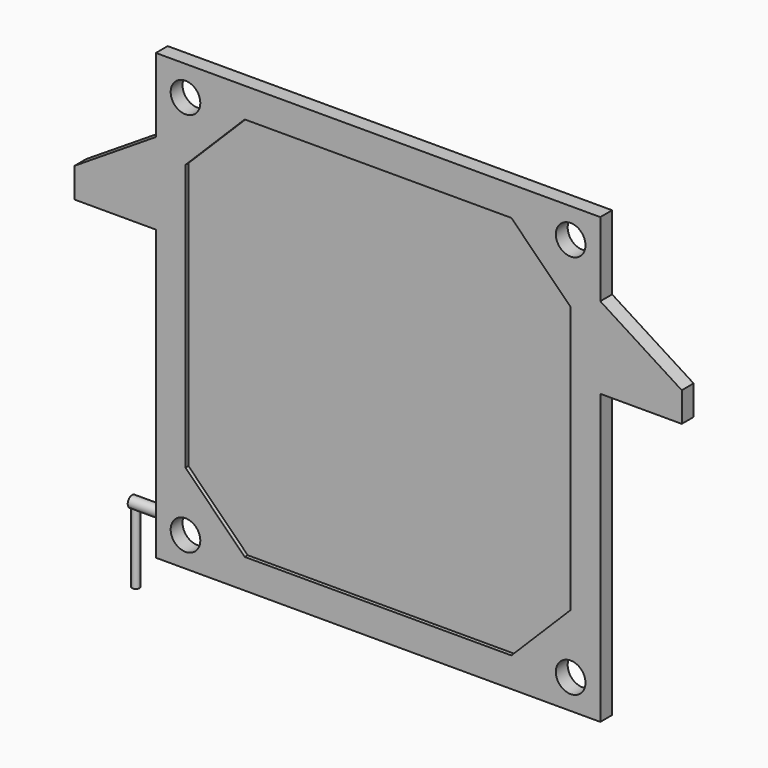
from build123d import *

# Parameters (mm, degrees)
F1_DEPTH       = 20
F2_R           = 40
F3_DEPTH       = 50
F5_DEPTH       = 10
F7_DEPTH       = 10
F8_R           = 15
F9_DEPTH       = 80
F10_R          = 10
F11_DEPTH      = 100
F11_DEPTH_BACK = 100


with BuildPart() as f1:
    # F0 (on Front) → F1 (new body, symmetric)
    with BuildSketch(Plane.XZ):
        Polygon((600, 600), (-600, 600), (-600, 400), (-600, 180), (-600, -600), (600, -600), (600, 180), (600, 400), align=None)
        Polygon((-600, 180), (-600, 400), (-820, 260), (-820, 180), align=None)
        Polygon((820, 260), (600, 400), (600, 180), (820, 180), align=None)
    extrude(amount=F1_DEPTH, both=True)

    # F2 (on face) → F3 (cut)
    with BuildSketch(Plane.XZ.offset(20)):
        with Locations((-520, 520)):
            Circle(F2_R)
        with Locations((-520, -520)):
            Circle(F2_R)
        with Locations((520, 520)):
            Circle(F2_R)
        with Locations((520, -520)):
            Circle(F2_R)
    extrude(amount=-F3_DEPTH, mode=Mode.SUBTRACT)

    # F4 (on face) → F5 (cut)
    with BuildSketch(Plane.XZ.offset(20)):
        Polygon((360, 520), (-360, 520), (-520, 360), (-520, -360), (-360, -520), (360, -520), (520, -360), (520, 360), align=None)
    extrude(amount=-F5_DEPTH, mode=Mode.SUBTRACT)

    # F6 (on face) → F7 (cut)
    with BuildSketch(Plane(origin=(0, 20, 0), x_dir=(-1, 0, 0), z_dir=(0, 1, 0))):
        Polygon((360, -520), (520, -360), (520, 360), (360, 520), (-360, 520), (-520, 360), (-520, -360), (-360, -520), align=None)
    extrude(amount=-F7_DEPTH, mode=Mode.SUBTRACT)

    # F8 (on face) → F9 (join)
    with BuildSketch(Plane(origin=(-600, 0, 0), x_dir=(0, -1, 0), z_dir=(-1, 0, 0))):
        with Locations((0, -500)):
            Circle(F8_R)
    extrude(amount=F9_DEPTH)

    # F10 (on face) → F11 (join, two sides)
    with BuildSketch(Plane(origin=(0, 0, -600), x_dir=(1, 0, 0), z_dir=(0, 0, -1))) as f11_sk:
        with Locations((-670, 0)):
            Circle(F10_R)
    extrude(amount=-F11_DEPTH)
    extrude(f11_sk.sketch, amount=F11_DEPTH_BACK)


solid = f1.part
